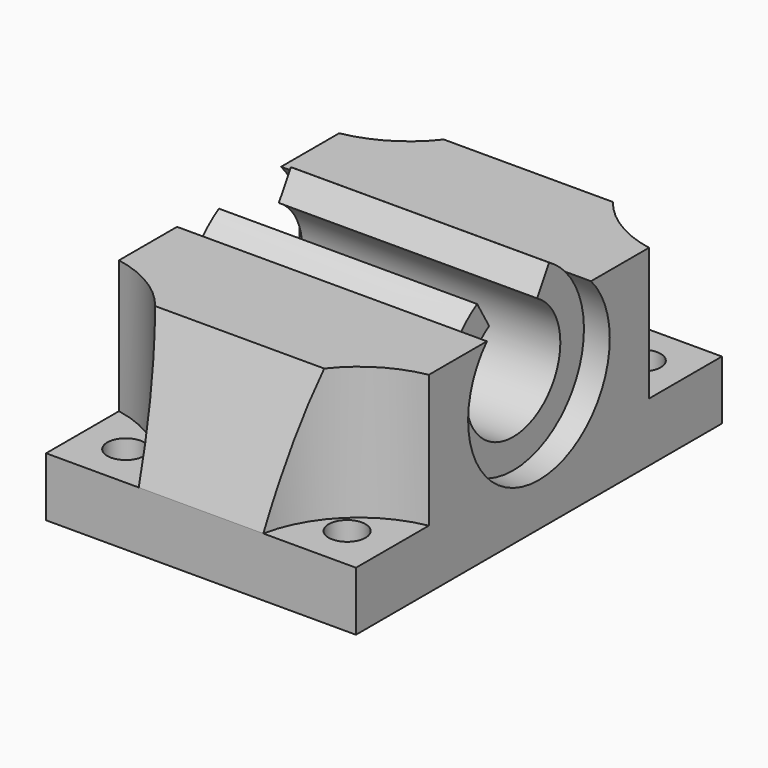
from build123d import *

# Parameters (mm, degrees)
F1_DEPTH = 21
F3_R     = 15.743514377
F4_DEPTH = 33
F5_DEPTH = 17.5
F7_D     = 5


with BuildPart() as f1:
    # F0 (on Right) → F1 (new body, symmetric)
    with BuildSketch(Plane.YZ):
        with BuildLine():
            Line((24.4485357832, 8.14), (8.8170516614, 8.14))
            ThreePointArc((8.8170516614, 8.14), (0, -12), (-8.8170516614, 8.14))
            Line((-8.8170516614, 8.14), (-24.4485357832, 8.14))
            Line((-24.4485357832, 8.14), (-31, -9.86))
            Line((-31, -9.86), (-31, -17.86))
            Line((-31, -17.86), (0, -17.86))
            Line((0, -17.86), (31, -17.86))
            Line((31, -17.86), (31, -9.86))
            Line((31, -9.86), (24.4485357832, 8.14))
        make_face()
    extrude(amount=F1_DEPTH, both=True)

    # F3 (on offset) → F4 (cut)
    with BuildSketch(Plane(origin=(0, 0, -9.86), x_dir=(1, 0, 0), z_dir=(0, 0, -1))):
        with Locations((-23.8725915551, 34.129627049)):
            Circle(F3_R)
        with Locations((-23.8725915551, -34.129627049)):
            Circle(F3_R)
        with Locations((23.8725915551, -34.129627049)):
            Circle(F3_R)
        with Locations((23.8725915551, 34.129627049)):
            Circle(F3_R)
    extrude(amount=-F4_DEPTH, mode=Mode.SUBTRACT)

    # F0 (on Right) → F5 (join, symmetric)
    with BuildSketch(Plane.YZ):
        with BuildLine():
            ThreePointArc((4.0603069037, 6.8930332835), (6.9455905159, 3.9697320294), (8, 0))
            ThreePointArc((8, 0), (-3.9697320294, -6.9455905159), (-4.0603069037, 6.8930332835))
            Line((-4.0603069037, 6.8930332835), (-6.0904603555, 10.3395499253))
            ThreePointArc((-6.0904603555, 10.3395499253), (-7.5344531057, 9.3398081564), (-8.8170516614, 8.14))
            ThreePointArc((-8.8170516614, 8.14), (0, -12), (8.8170516614, 8.14))
            ThreePointArc((8.8170516614, 8.14), (7.5344531057, 9.3398081564), (6.0904603555, 10.3395499253))
            Line((6.0904603555, 10.3395499253), (4.0603069037, 6.8930332835))
        make_face()
    extrude(amount=F5_DEPTH, both=True)

    # F7 (through all)
    with Locations(Plane(origin=(0, 0, -17.86), x_dir=(1, 0, 0), z_dir=(0, 0, -1))):
        with Locations((-15, -25), (-15, 25), (15, 25), (15, -25)):
            Hole(F7_D / 2)


solid = f1.part
